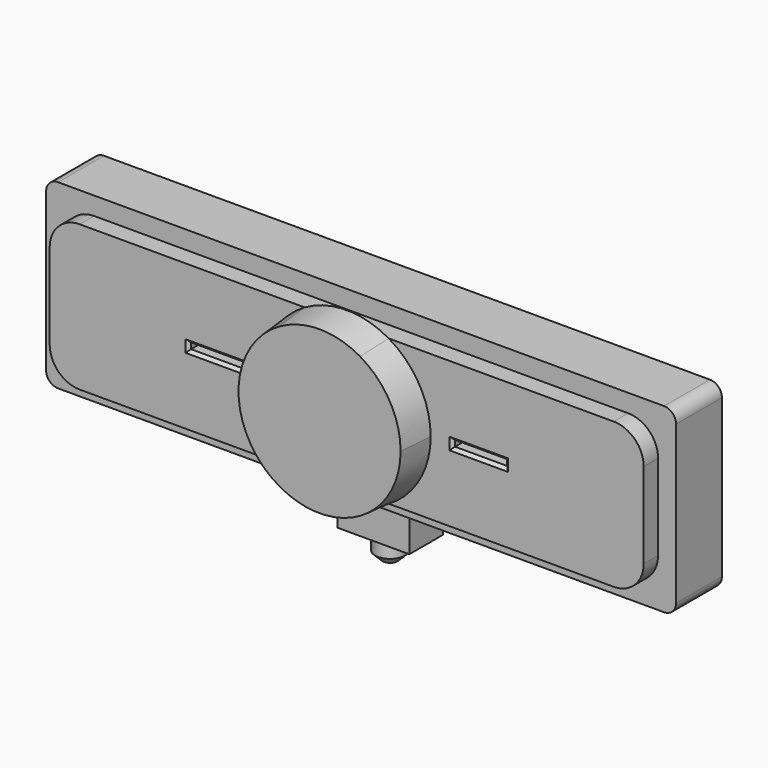
from build123d import *

# Parameters (mm, degrees)
F1_DEPTH  = 9.55
F2_W      = 8.7
F2_H      = 1
F3_DEPTH  = 3
F4_SIZE   = 0.5
F6_DEPTH  = 5.65
F6_TAPER  = 5
F8_DEPTH  = 4
F8_TAPER  = 15
F9_W      = 12
F9_H      = 7
F10_DEPTH = 7
F11_R     = 3.5
F12_DEPTH = 10
F12_TAPER = 10
F13_R     = 2.5
F14_DEPTH = 4
F15_SIZE  = 1.25


with BuildPart() as f1:
    # F0 (on Front) → F1 (new body)
    with BuildSketch(Plane.XZ):
        with BuildLine():
            Line((50.5, 15.125), (-50.5, 15.125))
            ThreePointArc((-50.5, 15.125), (-51.9142135624, 14.5392135624), (-52.5, 13.125))
            Line((-52.5, 13.125), (-52.5, -13.125))
            ThreePointArc((-52.5, -13.125), (-51.9142135624, -14.5392135624), (-50.5, -15.125))
            Line((-50.5, -15.125), (50.5, -15.125))
            ThreePointArc((50.5, -15.125), (51.9142135624, -14.5392135624), (52.5, -13.125))
            Line((52.5, -13.125), (52.5, 13.125))
            ThreePointArc((52.5, 13.125), (51.9142135624, 14.5392135624), (50.5, 15.125))
        make_face()
    extrude(amount=F1_DEPTH)

    # F2 (on face) → F3 (join)
    with BuildSketch(Plane.XZ.offset(9.55)):
        with BuildLine():
            Line((44.5, 12.125), (-44.5, 12.125))
            ThreePointArc((-44.5, 12.125), (-48.0355339059, 10.6605339059), (-49.5, 7.125))
            Line((-49.5, 7.125), (-49.5, -7.125))
            ThreePointArc((-49.5, -7.125), (-48.0355339059, -10.6605339059), (-44.5, -12.125))
            Line((-44.5, -12.125), (44.5, -12.125))
            ThreePointArc((44.5, -12.125), (48.0355339059, -10.6605339059), (49.5, -7.125))
            Line((49.5, -7.125), (49.5, 7.125))
            ThreePointArc((49.5, 7.125), (48.0355339059, 10.6605339059), (44.5, 12.125))
        make_face()
        with Locations((-22, 0)):
            Rectangle(F2_W, F2_H, mode=Mode.SUBTRACT)
        with Locations((22, 0)):
            Rectangle(F2_W, F2_H, mode=Mode.SUBTRACT)
    extrude(amount=F3_DEPTH)

    # F4
    f4_edges = [f1.edges().sort_by_distance(p)[0] for p in [
        (-22, -12.55, 0.5),
        (-17.65, -12.55, 0),
        (-22, -12.55, -0.5),
        (-26.35, -12.55, 0),
        (22, -12.55, -0.5),
        (17.65, -12.55, 0),
        (22, -12.55, 0.5),
        (26.35, -12.55, 0),
    ]]
    chamfer(f4_edges, length=F4_SIZE)

    # F5 (on face) → F6 (join)
    with BuildSketch(Plane.XZ.offset(12.55)):
        with BuildLine():
            ThreePointArc((6.9988838396, -12.125), (12.1240334409, -7.000558058), (14, 0))
            ThreePointArc((14, 0), (12.1240334409, 7.000558058), (6.9988838396, 12.125))
            Line((6.9988838396, 12.125), (-6.9988838396, 12.125))
            ThreePointArc((-6.9988838396, 12.125), (-14, 0), (-6.9988838396, -12.125))
            Line((-6.9988838396, -12.125), (6.9988838396, -12.125))
        make_face()
        with BuildLine():
            Line((-6.9988838396, 12.125), (6.9988838396, 12.125))
            ThreePointArc((6.9988838396, 12.125), (0, 14), (-6.9988838396, 12.125))
        make_face()
        with BuildLine():
            ThreePointArc((-6.9988838396, -12.125), (0, -14), (6.9988838396, -12.125))
            Line((6.9988838396, -12.125), (-6.9988838396, -12.125))
        make_face()
    extrude(amount=F6_DEPTH, taper=F6_TAPER)

    # F7 (on face) → F8 (join)
    with BuildSketch(Plane(origin=(0, 0, 0), x_dir=(-1, 0, 0), z_dir=(0, 1, 0))):
        with BuildLine():
            ThreePointArc((49.5, 9), (48.6213203436, 11.1213203436), (46.5, 12))
            Line((46.5, 12), (-46.5, 12))
            ThreePointArc((-46.5, 12), (-48.6213203436, 11.1213203436), (-49.5, 9))
            Line((-49.5, 9), (-49.5, -9))
            ThreePointArc((-49.5, -9), (-48.6213203436, -11.1213203436), (-46.5, -12))
            Line((-46.5, -12), (46.5, -12))
            ThreePointArc((46.5, -12), (48.6213203436, -11.1213203436), (49.5, -9))
            Line((49.5, -9), (49.5, 9))
        make_face()
    extrude(amount=F8_DEPTH, taper=F8_TAPER)

    # F9 (on face) → F10 (join)
    with BuildSketch(Plane(origin=(0, 0, -15.125), x_dir=(1, 0, 0), z_dir=(0, 0, -1))):
        with Locations((0, 3.5)):
            Rectangle(F9_W, F9_H)
    extrude(amount=F10_DEPTH)

    # F11 (on face) → F12 (join)
    with BuildSketch(Plane(origin=(0, 4, 0), x_dir=(-1, 0, 0), z_dir=(0, 1, 0))):
        Circle(F11_R)
    extrude(amount=F12_DEPTH, taper=F12_TAPER)

    # F13 (on face) → F14 (join)
    with BuildSketch(Plane(origin=(0, 0, -22.125), x_dir=(1, 0, 0), z_dir=(0, 0, -1))):
        with Locations((0, 3.5)):
            Circle(F13_R)
    extrude(amount=F14_DEPTH)

    # F15
    f15_edges = [f1.edges().sort_by_distance(p)[0] for p in [
        (-2.5, -3.5, -26.125),
    ]]
    chamfer(f15_edges, length=F15_SIZE)


solid = f1.part
